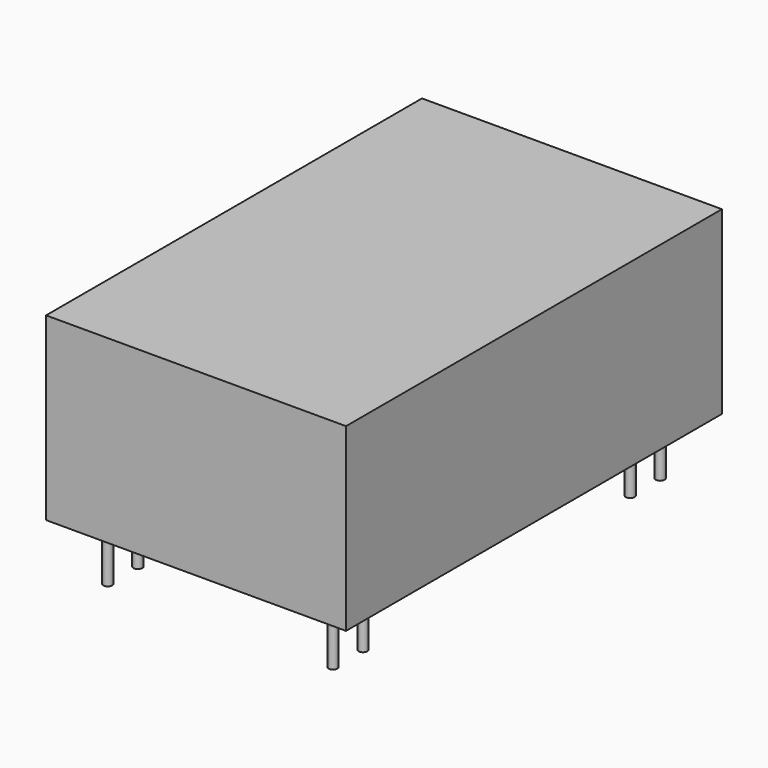
from build123d import *

# Parameters (mm, degrees)
F0_W     = 20.3
F0_H     = 31.8
F1_DEPTH = 12.2
F2_R     = 0.3
F3_DEPTH = 3.81


with BuildPart() as f1:
    # F0 (on Top) → F1 (new body)
    with BuildSketch(Plane.XY):
        with Locations((10.15, -15.9)):
            Rectangle(F0_W, F0_H)
    extrude(amount=F1_DEPTH)

    # F2 (on face) → F3 (join)
    with BuildSketch(Plane(origin=(0, 0, 0), x_dir=(1, 0, 0), z_dir=(0, 0, -1))):
        with Locations((2.53, 29.74)):
            Circle(F2_R)
        with Locations((2.53, 27.2)):
            Circle(F2_R)
        with Locations((2.53, 24.66)):
            Circle(F2_R)
        with BuildLine():
            ThreePointArc((18.07, 29.74), (17.77, 30.04), (17.47, 29.74))
            ThreePointArc((17.47, 29.74), (17.77, 29.44), (18.07, 29.74))
        make_face()
        with Locations((17.77, 27.2)):
            Circle(F2_R)
        with Locations((17.77, 4.6)):
            Circle(F2_R)
        with Locations((17.77, 2.06)):
            Circle(F2_R)
        with Locations((2.53, 2.06)):
            Circle(F2_R)
        with Locations((2.53, 4.6)):
            Circle(F2_R)
    extrude(amount=F3_DEPTH)


solid = f1.part
